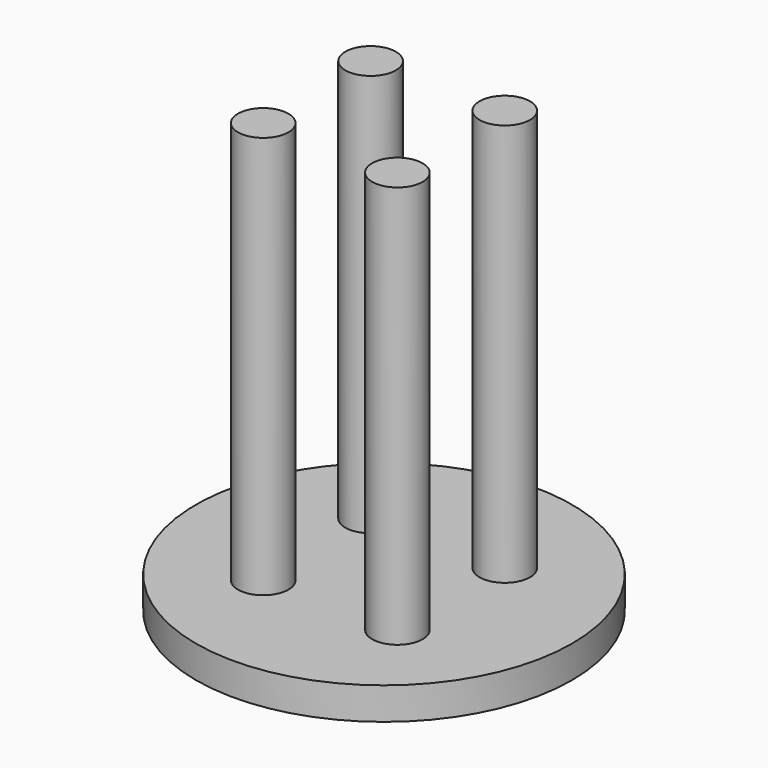
from build123d import *

# Parameters (mm, degrees)
SKETCH_R     = 70.069877
PAD_DEPTH    = 12
SKETCH001_R  = 9.407861
PAD001_DEPTH = 150


with BuildPart() as part:
    # Sketch → Pad (new body)
    with BuildSketch(Plane.XY):
        Circle(SKETCH_R)
    extrude(amount=PAD_DEPTH)

    # Sketch001 (on Face3 of Pad) → Pad001 (join)
    with BuildSketch(Plane.XY.offset(12)):
        with Locations((-25, 25)):
            Circle(SKETCH001_R)
        with Locations((25, 25)):
            Circle(SKETCH001_R)
        with Locations((25, -25)):
            Circle(SKETCH001_R)
        with Locations((-25, -25)):
            Circle(SKETCH001_R)
    extrude(amount=PAD001_DEPTH)


solid = part.part
